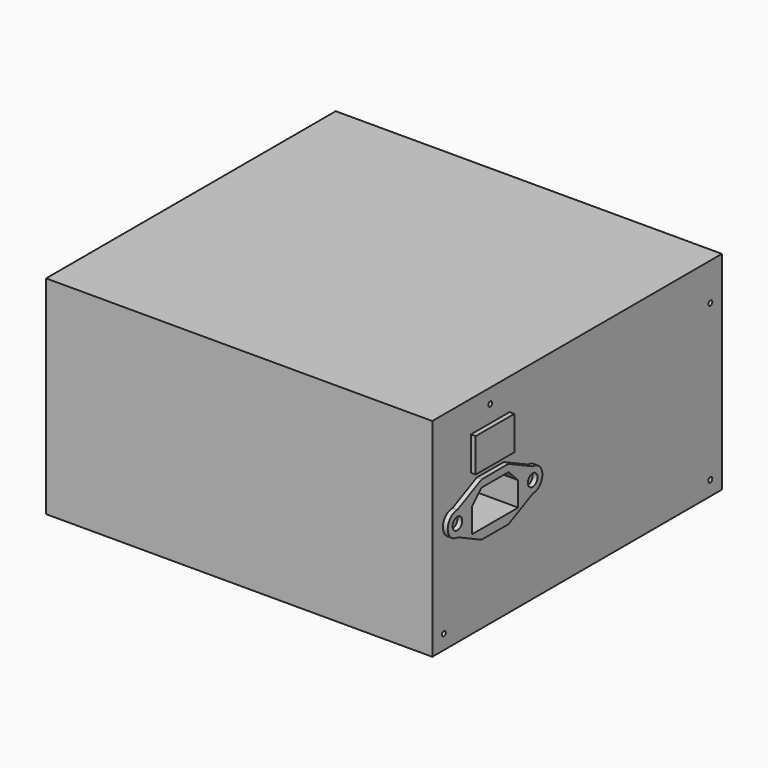
from build123d import *

# Parameters (mm, degrees)
F0_W      = 160
F0_H      = 150
F1_DEPTH  = 86
F3_DEPTH  = 20
F4_W      = 20
F4_H      = 14
F5_DEPTH  = 2
F6_R      = 2.5
F7_DEPTH  = 2
F8_R      = 1
F9_DEPTH  = 25
F10_W     = 23
F10_H     = 32
F11_DEPTH = 10
F12_R     = 65
F13_DEPTH = 5


with BuildPart() as f1:
    # F0 (on Top) → F1 (new body)
    with BuildSketch(Plane.XY):
        with Locations((93.771139, 75)):
            Rectangle(F0_W, F0_H)
    extrude(amount=F1_DEPTH)

    # F2 (on face) → F3 (cut)
    with BuildSketch(Plane.YZ.offset(173.771139)):
        Polygon((37, 53), (23, 53), (18, 48), (18, 38), (42, 38), (42, 48), align=None)
    extrude(amount=-F3_DEPTH, mode=Mode.SUBTRACT)

    # F4 (on face) → F5 (join)
    with BuildSketch(Plane.YZ.offset(173.771139)):
        with Locations((30, 66)):
            Rectangle(F4_W, F4_H)
    extrude(amount=F5_DEPTH)

    # F6 (on face) → F7 (join)
    with BuildSketch(Plane.YZ.offset(173.771139)):
        with BuildLine():
            Line((23, 56), (10.518483, 49.999966))
            ThreePointArc((10.518483, 49.999966), (5.500009, 45.009242), (10.5, 40))
            Line((10.5, 40), (23, 34))
            Line((23, 34), (37, 34))
            Line((37, 34), (49.5, 40))
            ThreePointArc((49.5, 40), (54.5, 45), (49.5, 50))
            Line((49.5, 50), (37, 56))
            Line((37, 56), (23, 56))
        make_face()
        with Locations((10.5, 45)):
            Circle(F6_R, mode=Mode.SUBTRACT)
        Polygon((42, 38), (18, 38), (18, 48), (23, 53), (37, 53), (42, 48), align=None, mode=Mode.SUBTRACT)
        with Locations((49.5, 45)):
            Circle(F6_R, mode=Mode.SUBTRACT)
    extrude(amount=F7_DEPTH)

    # F8 (on face) → F9 (cut)
    with BuildSketch(Plane.YZ.offset(173.771139)):
        with Locations((30, 80)):
            Circle(F8_R)
        with Locations((6, 6)):
            Circle(F8_R)
        with Locations((144, 70.5)):
            Circle(F8_R)
        with Locations((144, 6)):
            Circle(F8_R)
    extrude(amount=-F9_DEPTH, mode=Mode.SUBTRACT)

    # F10 (on face) → F11 (cut)
    with BuildSketch(Plane(origin=(13.771139, 0, 0), x_dir=(0, -1, 0), z_dir=(-1, 0, 0))):
        with Locations((-12.5, 49)):
            Rectangle(F10_W, F10_H)
    extrude(amount=-F11_DEPTH, mode=Mode.SUBTRACT)

    # F12 (on face) → F13 (cut)
    with BuildSketch(Plane(origin=(0, 0, 0), x_dir=(1, 0, 0), z_dir=(0, 0, -1))):
        with Locations((93.771139, -75)):
            Circle(F12_R)
    extrude(amount=-F13_DEPTH, mode=Mode.SUBTRACT)


solid = f1.part
